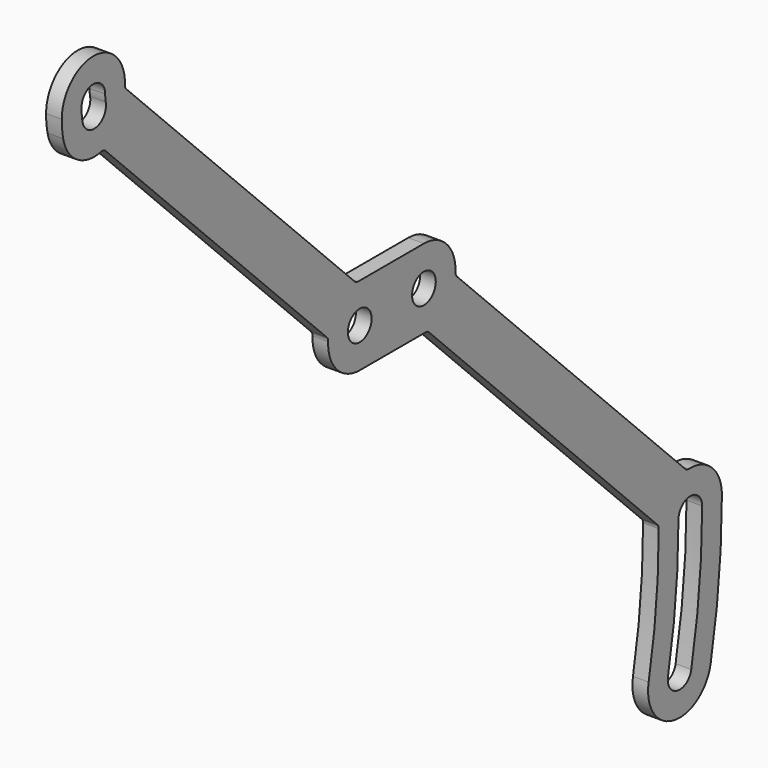
from build123d import *

# Parameters (mm, degrees)
SKETCH_R  = 3
PAD_DEPTH = 3.175


with BuildPart() as part:
    # Sketch (on Face26 of Binder) → Pad (new body)
    with BuildSketch(Plane.YZ.offset(-1.8542)):
        with BuildLine():
            ThreePointArc((48.931428, -55.882884), (51.137806, -61.775535), (56.923, -64.25))
            Line((56.923, -64.25), (73.608876, -64.25))
            ThreePointArc((74.457404, -64.601472), (74.068096, -64.341345), (73.608876, -64.25))
            Line((74.457404, -64.601472), (132.274816, -122.418884))
            ThreePointArc((132.626282, -123.263462), (132.534186, -122.806368), (132.274816, -122.418884))
            ThreePointArc((130.078609, -149.574244), (132.00958, -136.482484), (132.626282, -123.263462))
            ThreePointArc((130.078609, -149.574244), (136.364169, -158.981249), (145.771174, -152.695689))
            ThreePointArc((145.771174, -152.695689), (147.91132, -138.267994), (148.627, -123.7))
            ThreePointArc((148.627, -123.7), (146.152535, -117.914806), (140.259884, -115.708428))
            ThreePointArc((139.356288, -115.35822), (139.771162, -115.628595), (140.259884, -115.708428))
            Line((81.51878, -57.520712), (139.356288, -115.35822))
            ThreePointArc((81.168572, -56.617116), (81.248405, -57.105838), (81.51878, -57.520712))
            ThreePointArc((81.168572, -56.617116), (78.962194, -50.724465), (73.177, -48.25))
            Line((56.491124, -48.25), (73.177, -48.25))
            ThreePointArc((55.642596, -47.898528), (56.031904, -48.158655), (56.491124, -48.25))
            Line((55.642596, -47.898528), (-2.18522, 9.929288))
            ThreePointArc((-2.535428, 10.832884), (-2.455595, 10.344162), (-2.18522, 9.929288))
            ThreePointArc((-2.535428, 10.832884), (-10.343393, 19.197893), (-18.527, 11.2))
            ThreePointArc((-18.527, 11.2), (-18.437787, 9.384036), (-18.171009, 7.585562))
            ThreePointArc((-18.171009, 7.585562), (-14.673899, 2.43177), (-8.540693, 1.347744))
            ThreePointArc((-7.424559, 1.026492), (-7.941171, 1.331147), (-8.540693, 1.347744))
            Line((-7.424559, 1.026492), (48.58122, -54.979288))
            ThreePointArc((48.931428, -55.882884), (48.851595, -55.394162), (48.58122, -54.979288))
        make_face()
        with Locations((56.923, -56.25)):
            Circle(SKETCH_R, mode=Mode.SUBTRACT)
        with Locations((73.177, -56.25)):
            Circle(SKETCH_R, mode=Mode.SUBTRACT)
        with BuildLine():
            ThreePointArc((-13.527, 11.2), (-13.461864, 9.874122), (-13.267082, 8.561013))
            ThreePointArc((-13.267082, 8.561013), (-9.739456, 6.203928), (-7.382371, 9.731555))
            ThreePointArc((-7.527, 11.2), (-7.490755, 10.462225), (-7.382371, 9.731555))
            ThreePointArc((-7.527, 11.2), (-10.527, 14.2), (-13.527, 11.2))
        make_face(mode=Mode.SUBTRACT)
        with BuildLine():
            ThreePointArc((140.867247, -151.720238), (142.935397, -137.777908), (143.627, -123.7))
            ThreePointArc((143.627, -123.7), (140.627, -120.7), (137.627, -123.7))
            ThreePointArc((134.982536, -150.549696), (136.964288, -137.189805), (137.627, -123.7))
            ThreePointArc((134.982536, -150.549696), (137.339621, -154.077323), (140.867247, -151.720238))
        make_face(mode=Mode.SUBTRACT)
    extrude(amount=-PAD_DEPTH)


solid = part.part
